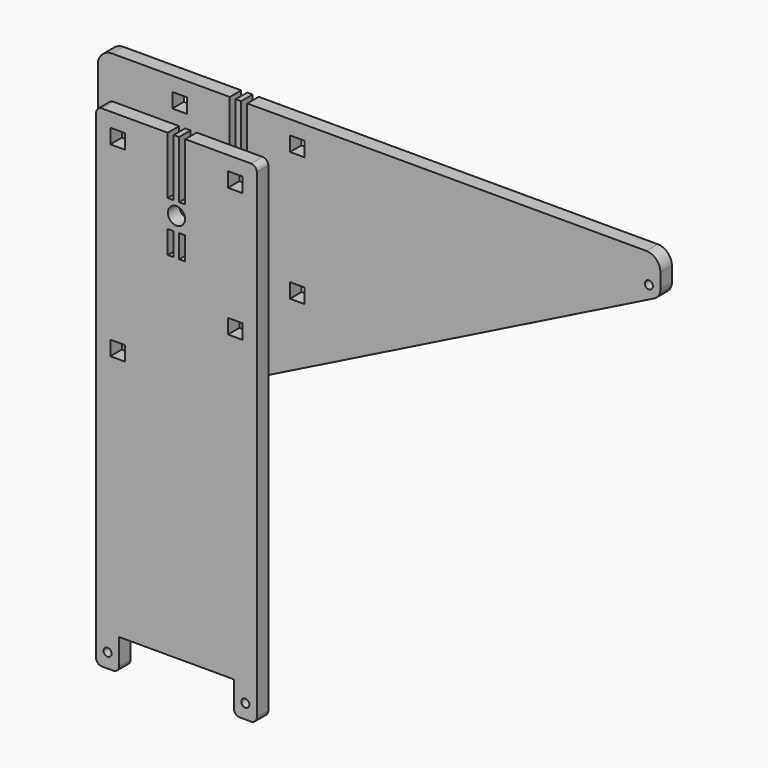
from build123d import *

# Parameters (mm, degrees)
F0_R     = 1.4
F0_W     = 5.1
F0_H     = 5.1
F0_W_2   = 2.1
F0_H_2   = 8
F0_R_2   = 3
F3_DEPTH = 5
F2_R     = 1.4
F2_W     = 5.1
F2_H     = 5.1
F2_W_2   = 2.1
F2_H_2   = 8
F2_R_2   = 3
F4_DEPTH = 5


with BuildPart() as f3:
    # F0 (on Front) → F3 (new body)
    with BuildSketch(Plane.XZ):
        with BuildLine():
            Line((-43.211146, 63.422291), (144.788854, 157.422291))
            ThreePointArc((144.788854, 157.422291), (146.402603, 158.897076), (147, 161))
            Line((147, 161), (147, 166.150238))
            ThreePointArc((147, 166.150238), (145.55273, 169.668492), (142.048755, 171.15))
            Line((142.048755, 171.15), (3.05, 171.15))
            Line((3.05, 171.15), (3.05, 151.15))
            Line((3.05, 151.15), (0.95, 151.15))
            Line((0.95, 151.15), (0.95, 171.15))
            Line((0.95, 171.15), (-0.95, 171.15))
            Line((-0.95, 171.15), (-0.95, 151.15))
            Line((-0.95, 151.15), (-3.05, 151.15))
            Line((-3.05, 151.15), (-3.05, 171.15))
            Line((-3.05, 171.15), (-44, 171.15))
            ThreePointArc((-44, 171.15), (-47.535534, 169.685534), (-49, 166.15))
            Line((-49, 166.15), (-49, 67))
            ThreePointArc((-49, 67), (-47.102924, 63.597397), (-43.211146, 63.422291))
        make_face()
        with Locations((-45, 67)):
            Circle(F0_R, mode=Mode.SUBTRACT)
        with Locations((-20.5, 98.65)):
            Rectangle(F0_W, F0_H, mode=Mode.SUBTRACT)
        with Locations((-2, 137.65)):
            Rectangle(F0_W_2, F0_H_2, mode=Mode.SUBTRACT)
        with Locations((20.5, 118.65)):
            Rectangle(F0_W, F0_H, mode=Mode.SUBTRACT)
        with Locations((2, 137.65)):
            Rectangle(F0_W_2, F0_H_2, mode=Mode.SUBTRACT)
        with Locations((0, 146.65)):
            Circle(F0_R_2, mode=Mode.SUBTRACT)
        with Locations((-20.5, 163.65)):
            Rectangle(F0_W, F0_H, mode=Mode.SUBTRACT)
        with Locations((20.5, 163.65)):
            Rectangle(F0_W, F0_H, mode=Mode.SUBTRACT)
        with Locations((143, 161)):
            Circle(F0_R, mode=Mode.SUBTRACT)
    extrude(amount=-F3_DEPTH)


with BuildPart() as f4:
    # F2 (on offset) → F4 (new body)
    with BuildSketch(Plane.XZ.offset(22)):
        with BuildLine():
            ThreePointArc((-28, 2), (-27.414214, 0.585786), (-26, 0))
            Line((-26, 0), (-22, 0))
            ThreePointArc((-22, 0), (-20.585786, 0.585786), (-20, 2))
            Line((-20, 2), (-20, 11))
            Line((-20, 11), (20, 11))
            Line((20, 11), (20, 2))
            ThreePointArc((20, 2), (20.585786, 0.585786), (22, 0))
            Line((22, 0), (26, 0))
            ThreePointArc((26, 0), (27.414214, 0.585786), (28, 2))
            Line((28, 2), (28, 169.15))
            ThreePointArc((28, 169.15), (27.414214, 170.564214), (26, 171.15))
            Line((26, 171.15), (3.05, 171.15))
            Line((3.05, 171.15), (3.05, 151.15))
            Line((3.05, 151.15), (0.95, 151.15))
            Line((0.95, 151.15), (0.95, 171.15))
            Line((0.95, 171.15), (-0.95, 171.15))
            Line((-0.95, 171.15), (-0.95, 151.15))
            Line((-0.95, 151.15), (-3.05, 151.15))
            Line((-3.05, 151.15), (-3.05, 171.15))
            Line((-3.05, 171.15), (-26, 171.15))
            ThreePointArc((-26, 171.15), (-27.414214, 170.564214), (-28, 169.15))
            Line((-28, 169.15), (-28, 2))
        make_face()
        with Locations((-24, 5)):
            Circle(F2_R, mode=Mode.SUBTRACT)
        with Locations((24, 5)):
            Circle(F2_R, mode=Mode.SUBTRACT)
        with Locations((-20.5, 98.65)):
            Rectangle(F2_W, F2_H, mode=Mode.SUBTRACT)
        with Locations((-2, 137.65)):
            Rectangle(F2_W_2, F2_H_2, mode=Mode.SUBTRACT)
        with Locations((-20.5, 163.65)):
            Rectangle(F2_W, F2_H, mode=Mode.SUBTRACT)
        with Locations((20.5, 118.65)):
            Rectangle(F2_W, F2_H, mode=Mode.SUBTRACT)
        with Locations((2, 137.65)):
            Rectangle(F2_W_2, F2_H_2, mode=Mode.SUBTRACT)
        with Locations((0, 146.65)):
            Circle(F2_R_2, mode=Mode.SUBTRACT)
        with Locations((20.5, 163.65)):
            Rectangle(F2_W, F2_H, mode=Mode.SUBTRACT)
    extrude(amount=F4_DEPTH)


solid = Compound([f3.part, f4.part])
